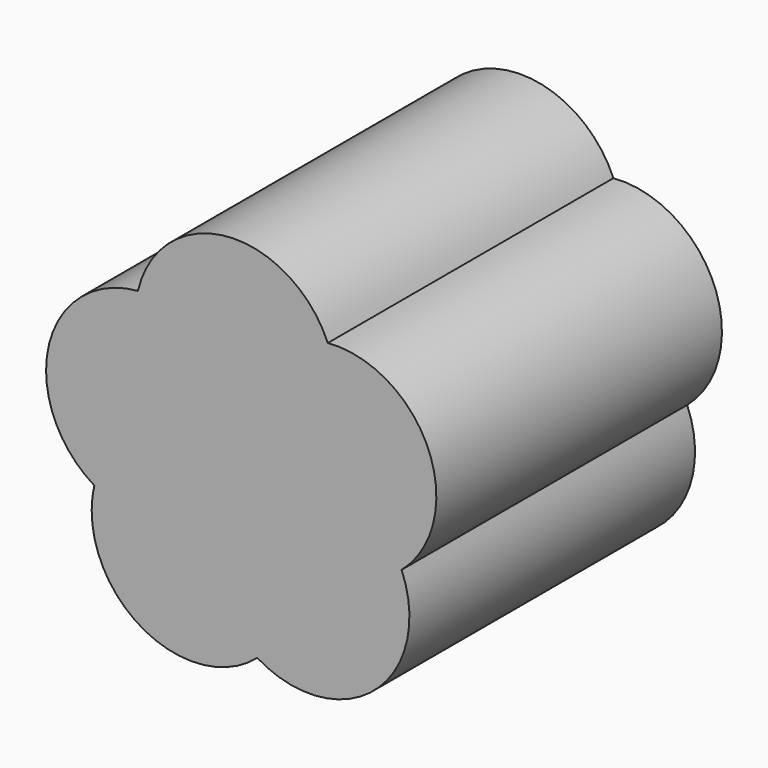
from build123d import *

# Parameters (mm, degrees)
F0_W     = 70.869125
F0_H     = 25.236432
F1_DEPTH = 63.8
F2_W     = 70.869125
F2_H     = 63.8
F3_DEPTH = 93.9


with BuildPart() as f1:
    # F0 (on Top) → F1 (new body)
    with BuildSketch(Plane.XY):
        with Locations((35.434562, 12.618216)):
            Rectangle(F0_W, F0_H)
    extrude(amount=F1_DEPTH)

    # F2 (on face) → F3 (cut)
    with BuildSketch(Plane(origin=(0, 25.236432, 0), x_dir=(-1, 0, 0), z_dir=(0, 1, 0))):
        with Locations((-35.434562, 31.9)):
            Rectangle(F2_W, F2_H)
        with BuildLine():
            ThreePointArc((-44.385502, 41.763643), (-37.264673, 46.078395), (-30.960642, 40.639417))
            ThreePointArc((-30.960642, 40.639417), (-26.338772, 38.376168), (-24.469112, 33.581551))
            ThreePointArc((-24.469112, 33.581551), (-25.380852, 30.105396), (-27.881335, 27.524212))
            ThreePointArc((-27.881335, 27.524212), (-27.740867, 26.720179), (-27.693836, 25.905324))
            ThreePointArc((-27.693836, 25.905324), (-31.827332, 19.465933), (-39.403078, 20.542795))
            ThreePointArc((-39.403078, 20.542795), (-47.700097, 21.237605), (-49.603214, 29.343248))
            ThreePointArc((-49.603214, 29.343248), (-51.506331, 37.44889), (-44.385502, 41.763643))
        make_face(mode=Mode.SUBTRACT)
    extrude(amount=-F3_DEPTH, mode=Mode.SUBTRACT)


solid = f1.part
